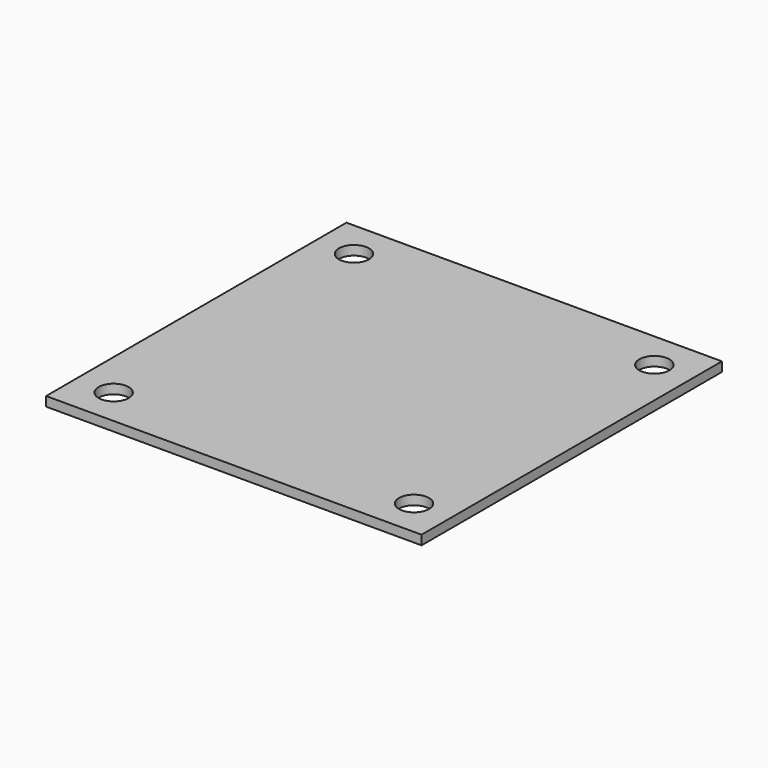
from build123d import *

# Parameters (mm, degrees)
F0_W     = 200
F0_H     = 200
F1_DEPTH = 5
F3_D     = 16


with BuildPart() as f1:
    # F0 (on Top) → F1 (new body)
    with BuildSketch(Plane.XY):
        with Locations((100, 100)):
            Rectangle(F0_W, F0_H)
    extrude(amount=F1_DEPTH)

    # F3 (through all)
    with Locations(Plane.XY.offset(5)):
        with Locations((180, 20), (20, 20), (180, 180), (20, 180)):
            Hole(F3_D / 2)


solid = f1.part
